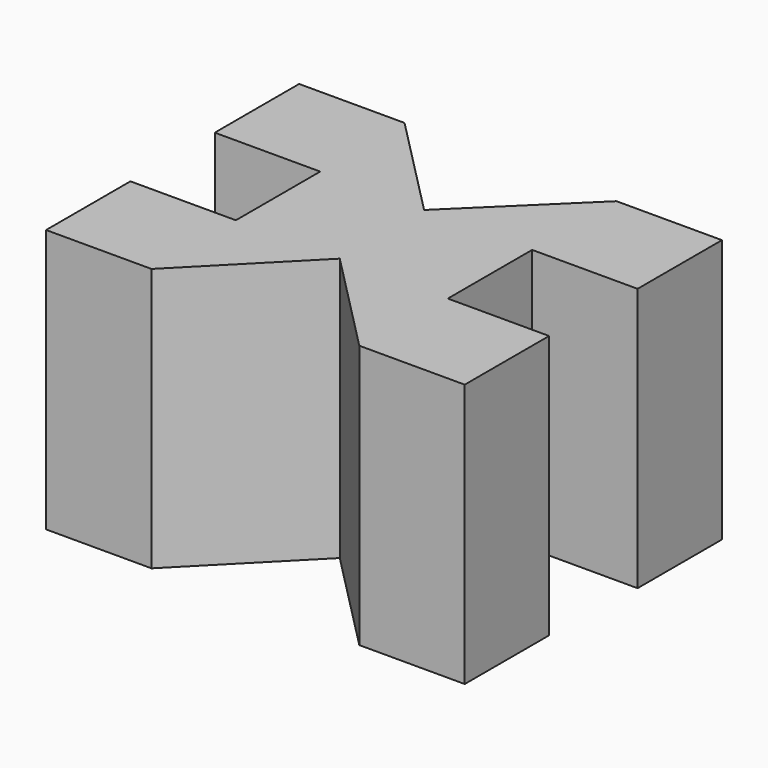
from build123d import *

# Parameters (mm, degrees)
F1_DEPTH = 25


with BuildPart() as f1:
    # F0 (on Top) → F1 (new body)
    with BuildSketch(Plane.XY):
        Polygon((10.246701, 10), (0, 0), (-9.855736, 10), (-19.855736, 10), (-19.855736, 0), (-9.855736, 0), (-9.855736, -10), (-19.855736, -10), (-19.855736, -20), (-9.855736, -20), (0, -10), (9.852586, -20.000002), (19.852586, -20.000002), (19.852586, -10), (10.246701, -10), (10.246701, 0), (20.246701, 0), (20.246701, 10), align=None)
    extrude(amount=F1_DEPTH)


solid = f1.part
